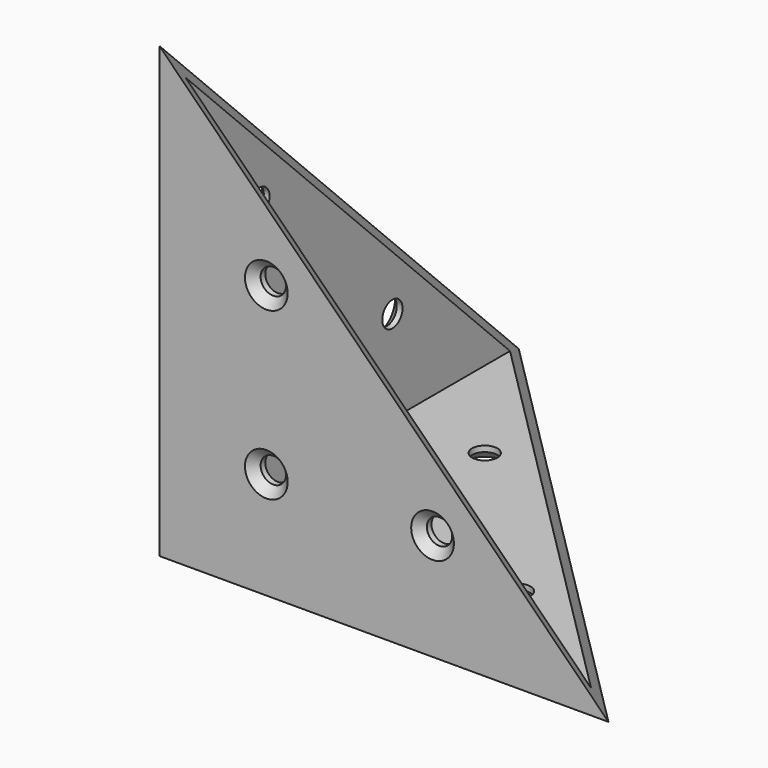
from build123d import *

# Parameters (mm, degrees)
F1_DEPTH  = 2
F3_DEPTH  = 60
F5_DEPTH  = 31.001
F6_R      = 1.75
F7_DEPTH  = 2.001
F9_R      = 1.75
F10_DEPTH = 2.001
F13_DEPTH = 71.5924333795
F14_SIZE  = 1.2


with BuildPart() as f1:
    # F0 (on Top) → F1 (new body)
    with BuildSketch(Plane.XY):
        Polygon((62, 0), (31, 31), (0, 0), align=None)
    extrude(amount=F1_DEPTH)

    # F2 (on face) → F3 (join)
    with BuildSketch(Plane.XY.offset(2)):
        Polygon((2, 2), (0, 0), (62, 0), (60, 2), align=None)
    extrude(amount=F3_DEPTH)

    # F4 (on face) → F5 (cut, through all)
    with BuildSketch(Plane.XZ):
        Polygon((62, 62), (0, 62), (62, 0), align=None)
    extrude(amount=-F5_DEPTH, mode=Mode.SUBTRACT)

    # F6 (on face) → F7 (cut, through all)
    with BuildSketch(Plane(origin=(0, 2, 0), x_dir=(-1, 0, 0), z_dir=(0, 1, 0))):
        with Locations((-14.75, 14.75)):
            Circle(F6_R)
        with Locations((-14.75, 37.704058454)):
            Circle(F6_R)
        with Locations((-37.704058454, 14.75)):
            Circle(F6_R)
    extrude(amount=-F7_DEPTH, mode=Mode.SUBTRACT)

    # F8: F1 across face


with BuildPart() as f1_1:
    add(f1.part)
    add(f1.part.mirror(Plane(origin=(5.9907407407, 5.9907407407, 20.9962962963), x_dir=(-0.7071067812, -0.7071067812, 0), z_dir=(-0.7071067812, 0.7071067812, 0))))

    # F9 (on face) → F10 (cut, through all)
    with BuildSketch(Plane.XY.offset(2)):
        with Locations((14.75, 14.75)):
            Circle(F9_R)
        with Locations((37.704058454, 14.75)):
            Circle(F9_R)
        with Locations((14.75, 37.704058454)):
            Circle(F9_R)
    extrude(amount=-F10_DEPTH, mode=Mode.SUBTRACT)

    # F12 (on 3pt) → F13 (cut, through all)
    with BuildSketch(Plane(origin=(20.6666666667, 20.6666666667, 20.6666666667), x_dir=(0.8164965809, -0.4082482905, -0.4082482905), z_dir=(-0.5773502692, -0.5773502692, -0.5773502692))):
        Polygon((-25.3113940088, -43.8406204336), (50.6227880175, 0), (-25.3113940088, 43.8406204336), align=None)
    extrude(amount=-F13_DEPTH, mode=Mode.SUBTRACT)

    # F14
    f14_edges = [f1_1.edges().sort_by_distance(p)[0] for p in [
        (13, 37.704058, 0),
        (13, 14.75, 0),
        (35.954058, 14.75, 0),
        (0, 16.5, 14.75),
        (0, 39.454058, 14.75),
        (0, 16.5, 37.704058),
        (16.5, 0, 37.704058),
        (39.454058, 0, 14.75),
        (16.5, 0, 14.75),
    ]]
    chamfer(f14_edges, length=F14_SIZE)


solid = f1_1.part
